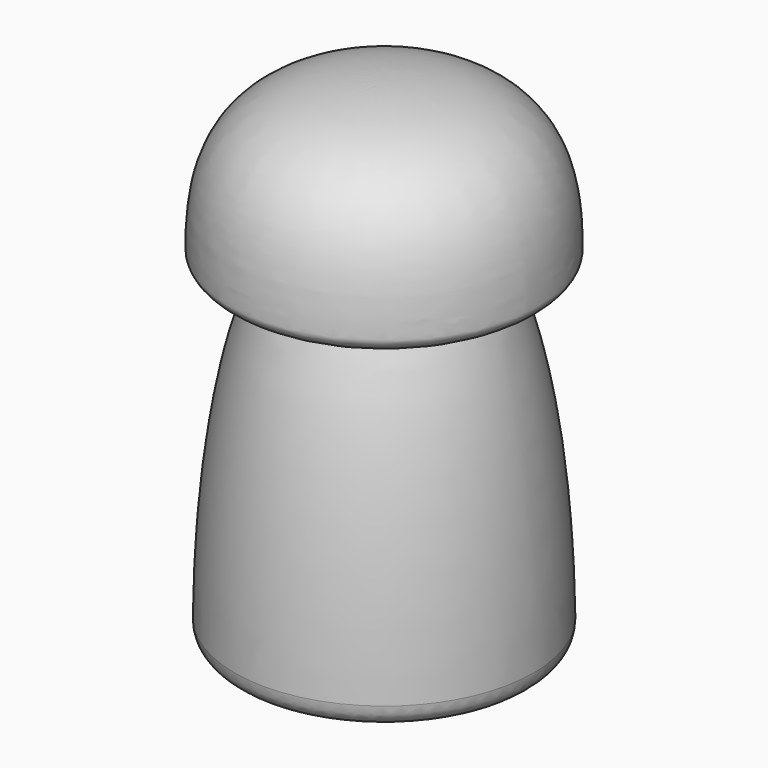
from build123d import *

# Parameters (mm, degrees)
F2_R = 1


with BuildPart() as f1:
    # F0 (on Front) → F1 (revolve)
    with BuildSketch(Plane.XZ):
        with BuildLine():
            add(Edge.make_bspline(
                [(1.4, 10), (1.4, 10.5), (0.2, 10.5), (0, 10.5)],
                knots=[0, 0, 0, 0, 1.486607, 1.486607, 1.486607, 1.486607], degree=3))
            Line((1.4, 10), (1.4, 0))
            Line((1.4, 0), (6.65, 0))
            add(Edge.make_bspline(
                [(4.6, 14.4), (4.668916, 14.102552), (6.65, 10.315103), (6.65, 0)],
                knots=[0, 0, 0, 0, 14.545188, 14.545188, 14.545188, 14.545188], degree=3))
            add(Edge.make_bspline(
                [(4.6, 14.4), (5.225379, 14.4), (6.9, 14.802897), (6.9, 15.5)],
                knots=[0, 0, 0, 0, 2.54951, 2.54951, 2.54951, 2.54951], degree=3))
            add(Edge.make_bspline(
                [(0, 22), (6.286507, 22), (6.9, 18.563248), (6.9, 15.5)],
                knots=[0, 0, 0, 0, 9.479451, 9.479451, 9.479451, 9.479451], degree=3))
            Line((0, 22), (0, 10.5))
        make_face()
    revolve(axis=Axis((0, 0, 0), (0, 0, -1)))

    # F2
    f2_edges = [f1.edges().sort_by_distance(p)[0] for p in [
        (-6.65, 0, 0),
    ]]
    fillet(f2_edges, radius=F2_R)


solid = f1.part
